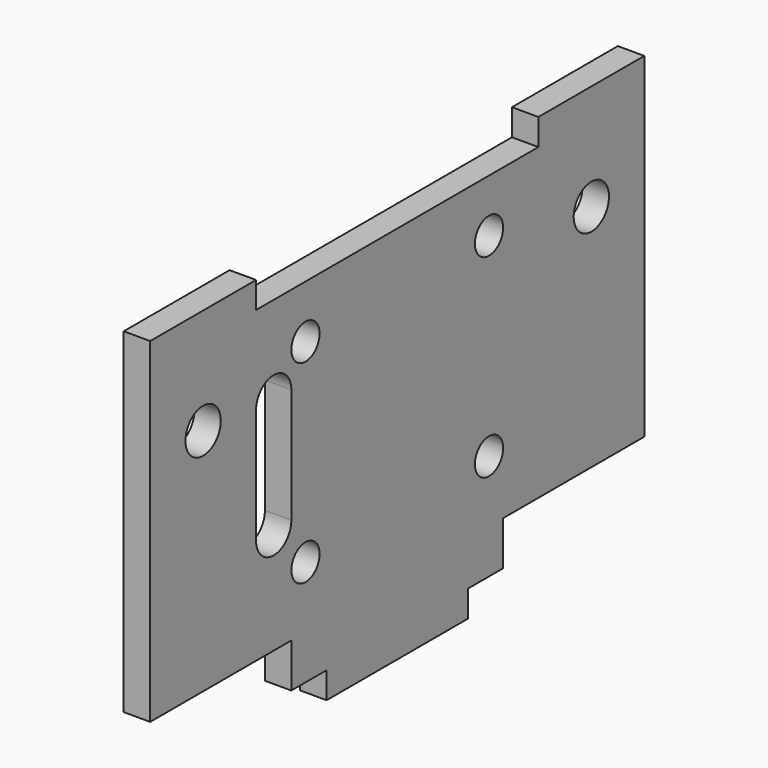
from build123d import *

# Parameters (mm, degrees)
PAD001_DEPTH    = 3
SKETCH010_R     = 2
POCKET007_DEPTH = 3.001
SKETCH011_R     = 2.5
POCKET008_DEPTH = 3.001


with BuildPart() as part:
    # Sketch004 → Pad001 (new body)
    with BuildSketch(Plane.YZ):
        Polygon((-35, 38), (-20, 38), (-20, 35), (20, 35), (20, 38), (35, 38), (35, 0), (15, 0), (15, -5), (10, -5), (10, -8), (-10, -8), (-10, -5), (-15, -5), (-15, 0), (-35, 0), align=None)
    extrude(amount=PAD001_DEPTH)

    # Sketch010 → Pocket007 (cut, through all)
    with BuildSketch(Plane.YZ.offset(3)):
        with Locations((-13, 29)):
            Circle(SKETCH010_R)
        with Locations((13, 29)):
            Circle(SKETCH010_R)
        with Locations((-13, 7)):
            Circle(SKETCH010_R)
        with Locations((13, 7)):
            Circle(SKETCH010_R)
        with BuildLine():
            Line((-20, 25), (-20, 12))
            ThreePointArc((-20, 12), (-17.5, 9.5), (-15, 12))
            Line((-15, 25), (-15, 12))
            ThreePointArc((-15, 25), (-17.5, 27.5), (-20, 25))
        make_face()
    extrude(amount=-POCKET007_DEPTH, mode=Mode.SUBTRACT)

    # Sketch011 → Pocket008 (cut, through all)
    with BuildSketch(Plane.YZ.offset(3)):
        with Locations((-27.5, 26)):
            Circle(SKETCH011_R)
        with Locations((27.5, 26)):
            Circle(SKETCH011_R)
    extrude(amount=-POCKET008_DEPTH, mode=Mode.SUBTRACT)


solid = part.part
